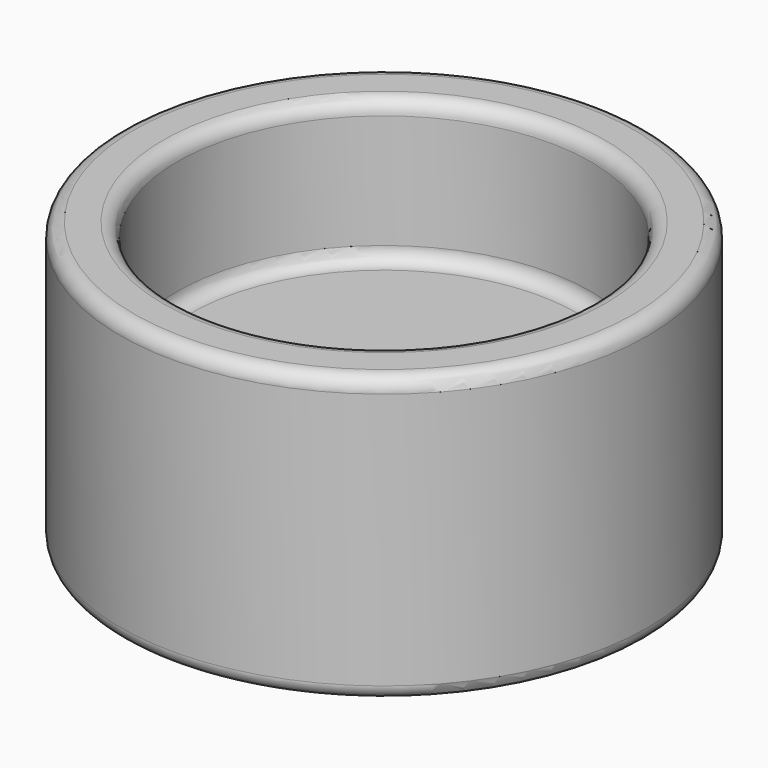
from build123d import *

# Parameters (mm, degrees)
F0_R     = 18.5
F1_DEPTH = 20
F2_R     = 14.5
F3_DEPTH = 10
F4_R     = 1


with BuildPart() as f1:
    # F0 (on Top) → F1 (new body)
    with BuildSketch(Plane.XY):
        Circle(F0_R)
    extrude(amount=F1_DEPTH)

    # F2 (on face) → F3 (cut)
    with BuildSketch(Plane.XY.offset(20)):
        Circle(F2_R)
    extrude(amount=-F3_DEPTH, mode=Mode.SUBTRACT)

    # F4
    f4_edges = [f1.edges().sort_by_distance(p)[0] for p in [
        (-18.5, 0, 20),
        (-14.5, 0, 20),
        (-18.5, 0, 0),
        (-14.5, 0, 10),
    ]]
    fillet(f4_edges, radius=F4_R)


solid = f1.part
